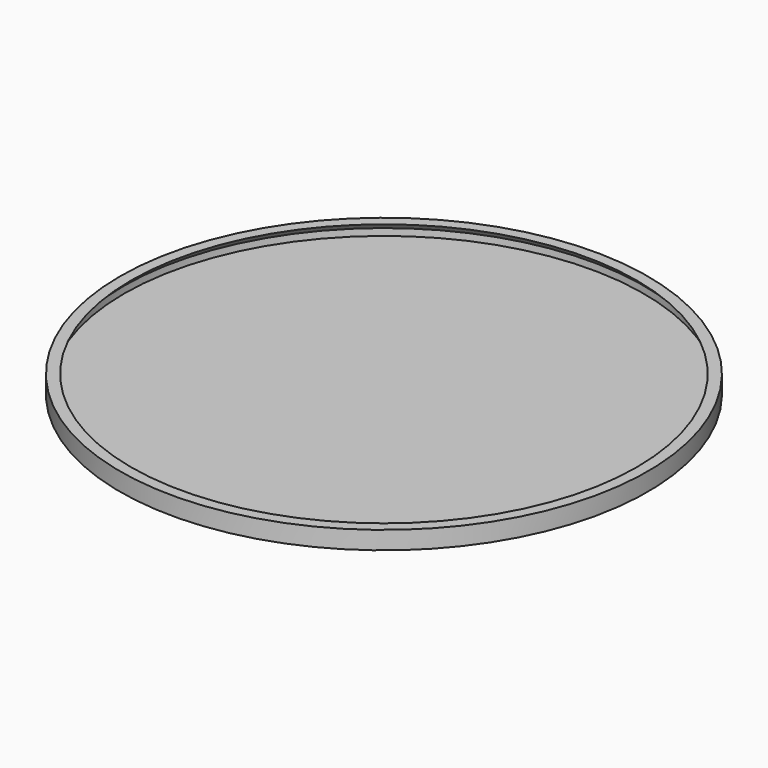
from build123d import *


with BuildPart() as part:
    # Sketch → Revolution (revolve)
    with BuildSketch(Plane.XZ):
        Polygon((0, 1.2), (0, 0), (-76.2, 0), (-76.2, 5.2), (-73, 5.2), (-75, 3.2), (-75, 1.2), align=None)
    revolve(axis=Axis((0, 0, 0), (0, 0, 1)))


solid = part.part
